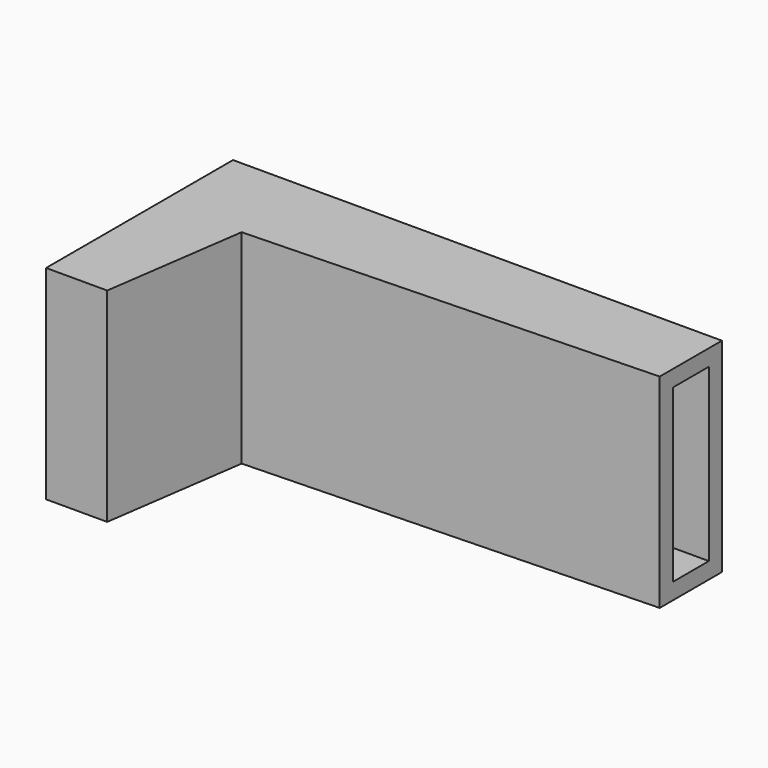
from build123d import *

# Parameters (mm, degrees)
PAD001_DEPTH = 8.4
PAD_DEPTH    = 10


with BuildPart() as pegcutoutpad:
    # Sketch001 → Pad001 (new body)
    with BuildSketch(Plane.XY.offset(0.8)):
        Polygon((20, -0.8), (-4, -0.8), (-4, -3.67), (0, -3.67), (20, -3.016154), align=None)
    extrude(amount=PAD001_DEPTH)


with BuildPart() as pegcut:
    # Sketch → Pad (new body)
    with BuildSketch(Plane.XY):
        Polygon((20, 0), (20, -3.816154), (0, -4.47), (-1, -11.47), (-4, -11.47), (-4, 0), align=None)
    extrude(amount=PAD_DEPTH)

    # Cut: cut PegCutOutPad
    add(pegcutoutpad.part, mode=Mode.SUBTRACT)


solid = pegcut.part
